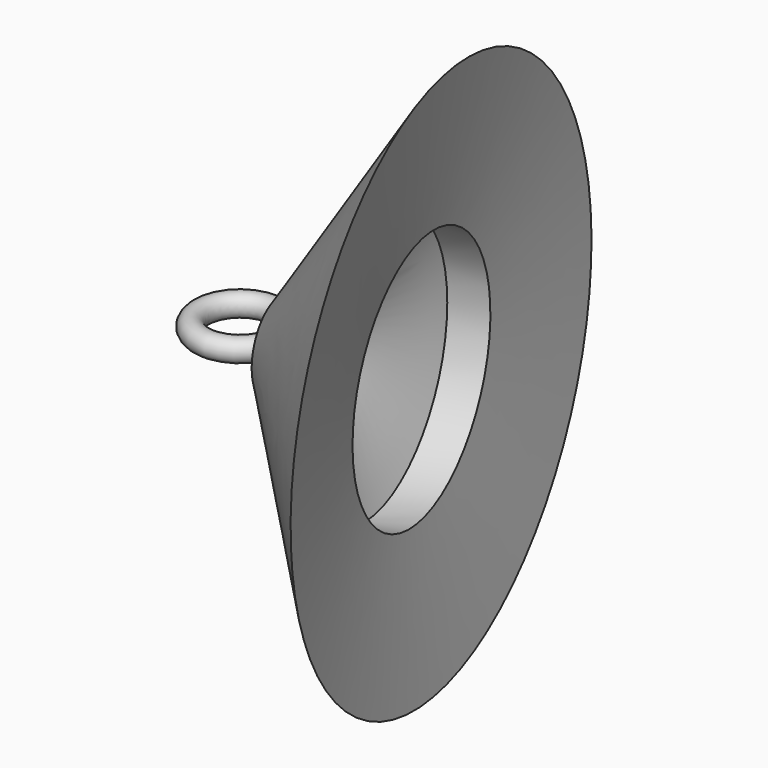
from build123d import *

# Parameters (mm, degrees)
F1_R = 31.2703951733


with BuildPart() as f2:
    # F1 (on Right) → F2 (revolve)
    with BuildSketch(Plane.YZ):
        with Locations((-61.4842474461, 14.3224224448)):
            Circle(F1_R)
    revolve(axis=Axis((-11.7110382606, 45.3767019057, 0), (0, 0, 1)))

    # F3 (on Front) → F4 (revolve)
    with BuildSketch(Plane.XZ):
        Polygon((98.9696606994, 106.638148427), (204.9032747746, -28.2021705061), (353.1694710255, 336.8743658066), (463.2258117199, 322.0586180687), (511.7508172989, 738.8726472855), align=None)
    revolve(axis=Axis((-5.2367869904, 16.9060976118, 0), (-0.9751057629, -0.2217402785, 0)))


solid = f2.part
